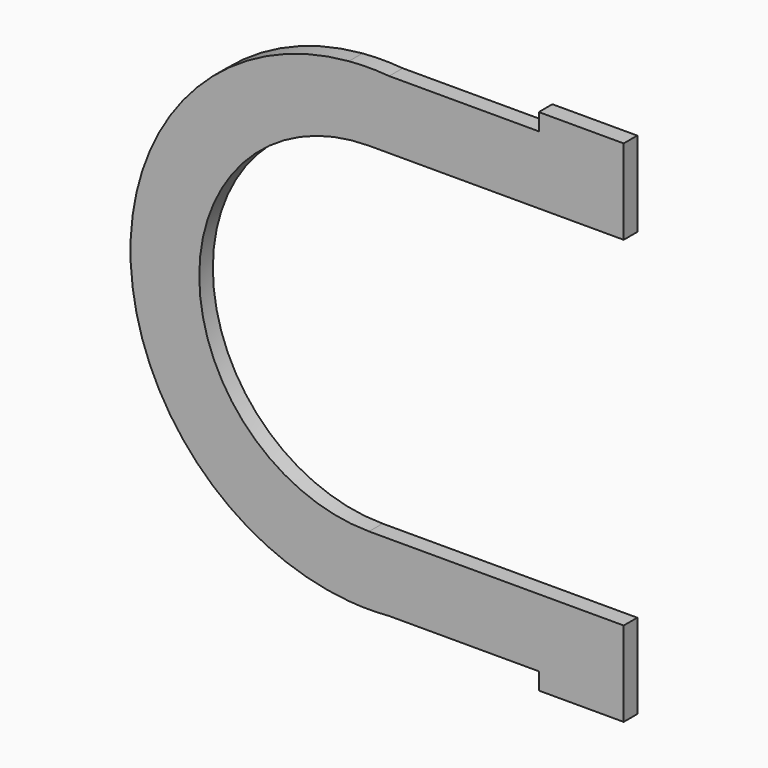
from build123d import *

# Parameters (mm, degrees)
F1_DEPTH = 12.7


with BuildPart() as f1:
    # F0 (on Front) → F1 (new body)
    with BuildSketch(Plane.XZ):
        with BuildLine():
            Line((127, 190.5), (127, 177.8))
            Line((127, 177.8), (15.045787, 177.8))
            Line((15.045787, 177.8), (-15.045787, 177.8))
            ThreePointArc((-15.045787, 177.8), (-178.435466, 0), (-15.045787, -177.8))
            Line((-15.045787, -177.8), (15.045787, -177.8))
            Line((15.045787, -177.8), (127, -177.8))
            Line((127, -177.8), (127, -190.5))
            Line((127, -190.5), (190.5, -190.5))
            Line((190.5, -190.5), (190.5, -177.8))
            Line((190.5, -177.8), (190.5, -127))
            Line((190.5, -127), (127, -127))
            Line((127, -127), (0, -127))
            ThreePointArc((0, -127), (-127, 0), (0, 127))
            Line((0, 127), (127, 127))
            Line((127, 127), (190.5, 127))
            Line((190.5, 127), (190.5, 177.8))
            Line((190.5, 177.8), (190.5, 190.5))
            Line((190.5, 190.5), (127, 190.5))
        make_face()
        with BuildLine():
            Line((-15.045787, 177.8), (15.045787, 177.8))
            ThreePointArc((15.045787, 177.8), (0, 178.435466), (-15.045787, 177.8))
        make_face()
        with BuildLine():
            Line((15.045787, -177.8), (-15.045787, -177.8))
            ThreePointArc((-15.045787, -177.8), (0, -178.435466), (15.045787, -177.8))
        make_face()
    extrude(amount=F1_DEPTH)


solid = f1.part
